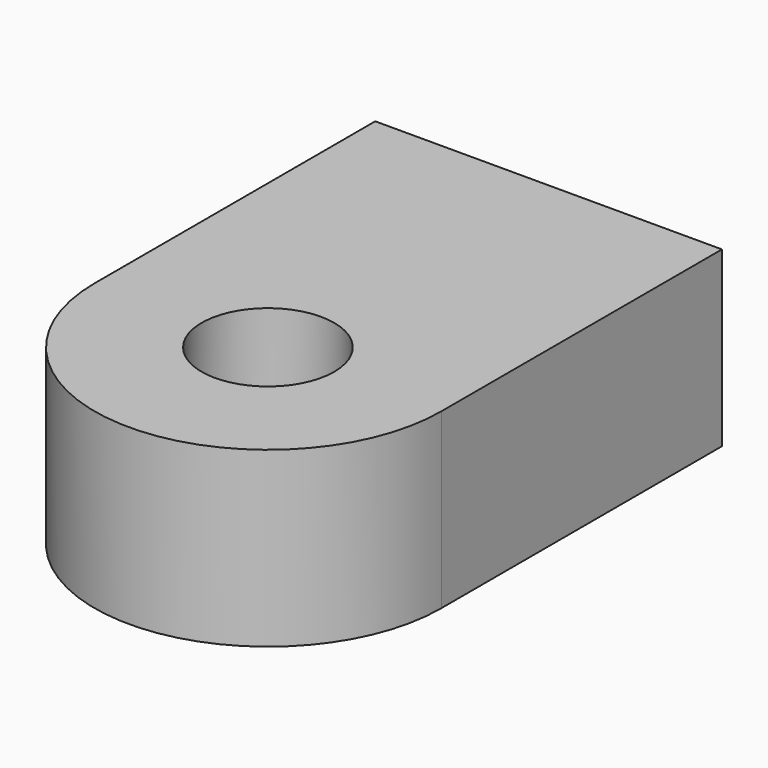
from build123d import *

# Parameters (mm, degrees)
F0_R     = 6.1870864942
F0_R_2   = 3.8241120886
F2_DEPTH = 10
F3_R     = 4.5894677587
F4_DEPTH = 3.7


with BuildPart() as f2:
    # F0 (on Top) → F2 (new body)
    with BuildSketch(Plane.XY):
        with BuildLine():
            Line((33.4636883251, 43.2611741126), (13.4636883251, 43.2611741126))
            Line((13.4636883251, 43.2611741126), (13.4636883251, 27.7164801955))
            Line((13.4636883251, 27.7164801955), (13.4636883251, 23.0237431824))
            ThreePointArc((13.4636883251, 23.0237431824), (23.4636883251, 13.0237431824), (33.4636883251, 23.0237431824))
            Line((33.4636883251, 23.0237431824), (33.4636883251, 43.2611741126))
        make_face()
        with Locations((23.4636883251, 23.0237431824)):
            Circle(F0_R, mode=Mode.SUBTRACT)
        with Locations((23.4636883251, 23.0237431824)):
            Circle(F0_R)
        with Locations((23.4636883251, 23.0237431824)):
            Circle(F0_R_2, mode=Mode.SUBTRACT)
    extrude(amount=F2_DEPTH)

    # F3 (on Top) → F4 (cut)
    with BuildSketch(Plane.XY):
        with Locations((23.3934633434, 22.9011047632)):
            Circle(F3_R)
    extrude(amount=F4_DEPTH, mode=Mode.SUBTRACT)


solid = f2.part
